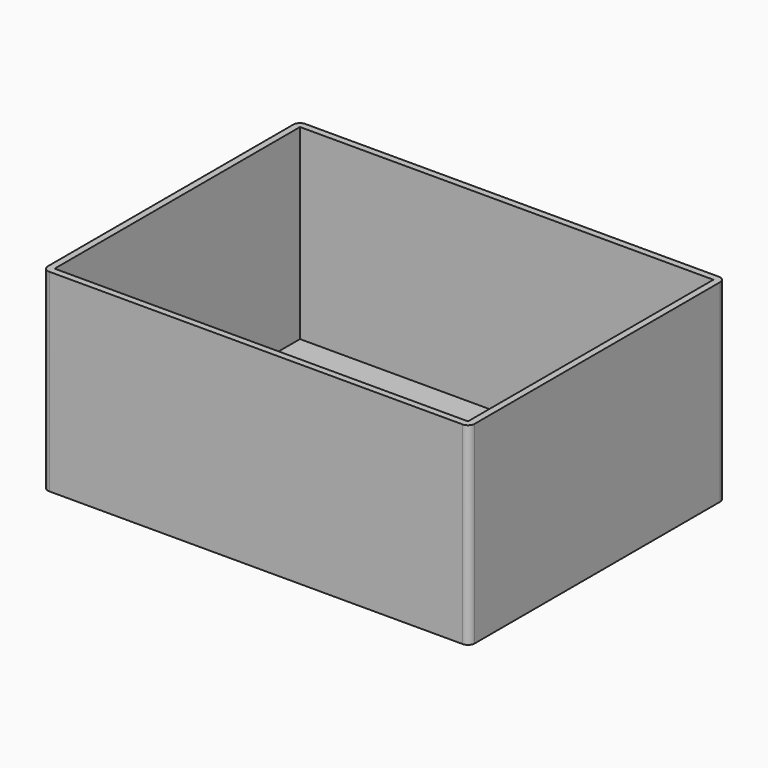
from build123d import *

# Parameters (mm, degrees)
F0_W     = 640
F0_H     = 480
F0_W_2   = 620
F0_H_2   = 460
F1_DEPTH = 290
F2_DEPTH = 280
F3_R     = 10


with BuildPart() as f1:
    # F0 (on Top) → F1 (new body)
    with BuildSketch(Plane.XY):
        Rectangle(F0_W, F0_H)
        Rectangle(F0_W_2, F0_H_2, mode=Mode.SUBTRACT)
        Rectangle(F0_W_2, F0_H_2)
    extrude(amount=-F1_DEPTH)

    # F0 (on Top) → F2 (cut)
    with BuildSketch(Plane.XY):
        Rectangle(F0_W_2, F0_H_2)
    extrude(amount=-F2_DEPTH, mode=Mode.SUBTRACT)

    # F3
    f3_edges = [f1.edges().sort_by_distance(p)[0] for p in [
        (-320, -240, -145),
        (320, -240, -145),
        (320, 240, -145),
        (-320, 240, -145),
    ]]
    fillet(f3_edges, radius=F3_R)


solid = f1.part
